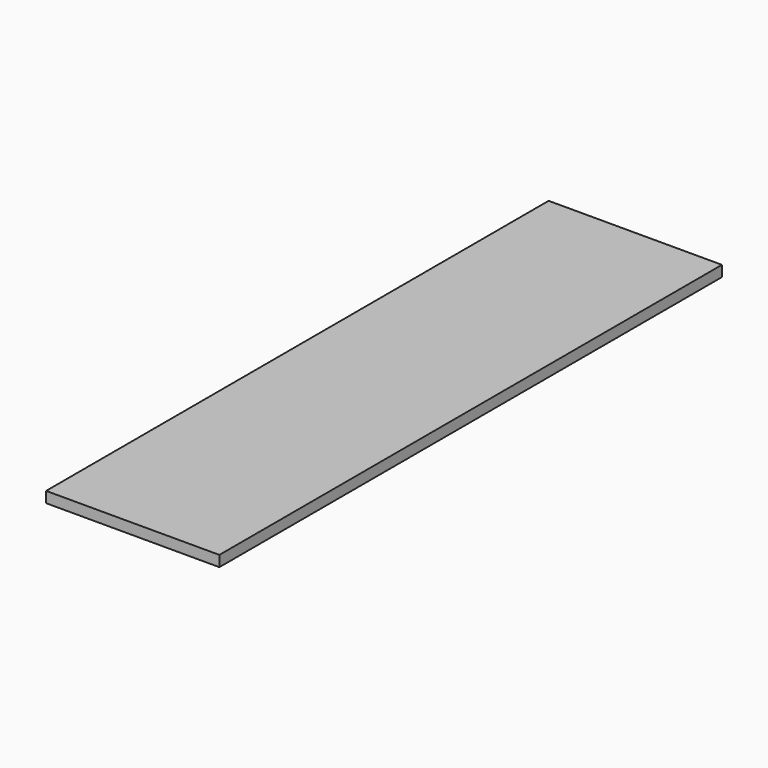
from build123d import *

# Parameters (mm, degrees)
SKETCH_W  = 0.8
SKETCH_H  = 2.9
PAD_DEPTH = 0.05


with BuildPart() as part:
    # Sketch → Pad (new body)
    with BuildSketch(Plane.XY):
        Rectangle(SKETCH_W, SKETCH_H)
    extrude(amount=PAD_DEPTH)


solid = part.part
